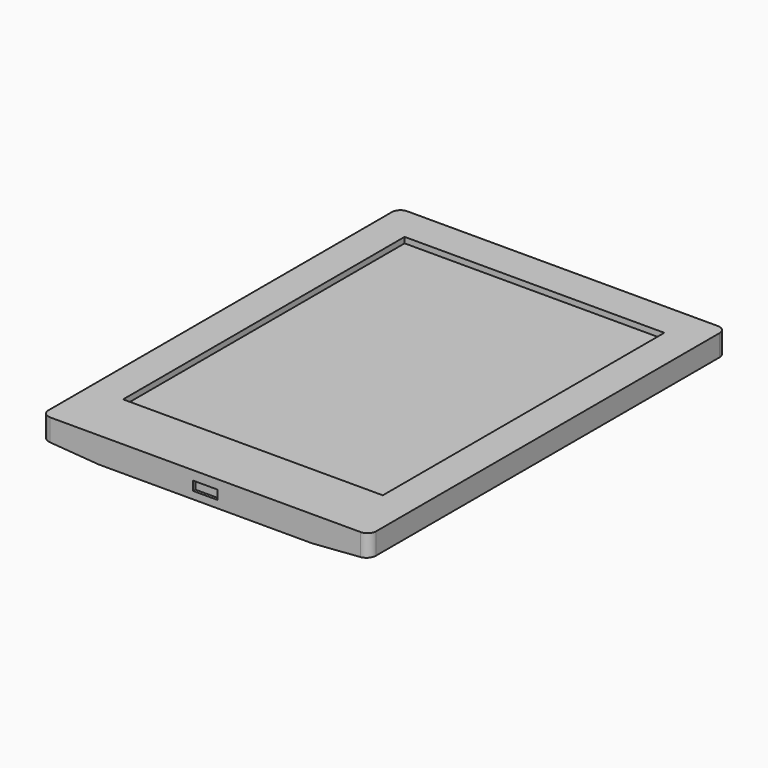
from build123d import *

# Parameters (mm, degrees)
PAD_DEPTH       = 78.2
PAD_DEPTH_BACK  = 78.2
SKETCH004_W     = 91
SKETCH004_H     = 123.3
POCKET_DEPTH    = 2
POCKET001_DEPTH = 2.6
FILLET_R        = 3
SKETCH012_W     = 8.6
SKETCH012_H     = 3.2
POCKET003_DEPTH = 1
SKETCH013_W     = 20
SKETCH013_H     = 5.6
POCKET004_DEPTH = 1


with BuildPart() as part:
    # Sketch003 → Pad (new body, two sides)
    with BuildSketch(Plane.XZ) as pad_sk:
        Polygon((-57.4, 6.4), (57.4, 6.4), (57.4, -1.1), (37.4, -2.6), (-37.4, -2.6), (-57.4, -1.1), align=None)
    extrude(amount=PAD_DEPTH)
    extrude(pad_sk.sketch, amount=-PAD_DEPTH_BACK)

    # Sketch004 (on Face2 of Pad) → Pocket (cut)
    with BuildSketch(Plane(origin=(0, 0, 6.4), x_dir=(-1, 0, 0), z_dir=(0, 0, 1))):
        with Locations((0, -4.25)):
            Rectangle(SKETCH004_W, SKETCH004_H)
    extrude(amount=-POCKET_DEPTH, mode=Mode.SUBTRACT)

    # Sketch005 (on Face6 of Pocket) → Pocket001 (cut)
    with BuildSketch(Plane(origin=(0, 0, -2.6), x_dir=(1, 0, 0), z_dir=(0, 0, -1))):
        with BuildLine():
            Line((-53.5, 76.4), (53.5, 76.4))
            ThreePointArc((55.5, 74.4), (54.914214, 75.814214), (53.5, 76.4))
            Line((55.5, 74.4), (55.5, -74.4))
            ThreePointArc((53.5, -76.4), (54.914214, -75.814214), (55.5, -74.4))
            Line((53.5, -76.4), (-53.5, -76.4))
            ThreePointArc((-55.5, -74.4), (-54.914214, -75.814214), (-53.5, -76.4))
            Line((-55.5, -74.4), (-55.5, 74.4))
            ThreePointArc((-53.5, 76.4), (-54.914214, 75.814214), (-55.5, 74.4))
        make_face()
    extrude(amount=-POCKET001_DEPTH, mode=Mode.SUBTRACT)

    # Fillet
    fillet_edges = [part.edges().sort_by_distance(p)[0] for p in [
        (57.4, -78.2, 2.65),
        (57.4, 78.2, 2.65),
        (-57.4, -78.2, 2.65),
        (-57.4, 78.2, 2.65),
    ]]
    fillet(fillet_edges, radius=FILLET_R)

    # Sketch012 (on Face10 of Fillet) → Pocket003 (cut)
    with BuildSketch(Plane.XZ.offset(78.2)):
        with Locations((0, 1.6)):
            Rectangle(SKETCH012_W, SKETCH012_H)
    extrude(amount=-POCKET003_DEPTH, mode=Mode.SUBTRACT)

    # Sketch013 (on Face6 of Pocket003) → Pocket004 (cut)
    with BuildSketch(Plane(origin=(0, 78.2, 0), x_dir=(1, 0, 0), z_dir=(0, 1, 0))):
        with Locations((0, -1.8)):
            Rectangle(SKETCH013_W, SKETCH013_H)
    extrude(amount=-POCKET004_DEPTH, mode=Mode.SUBTRACT)


with BuildPart() as part_1:
    # Body003 placement: moved
    add(part.part.moved(Location((0, 0, 12))))


solid = part_1.part
